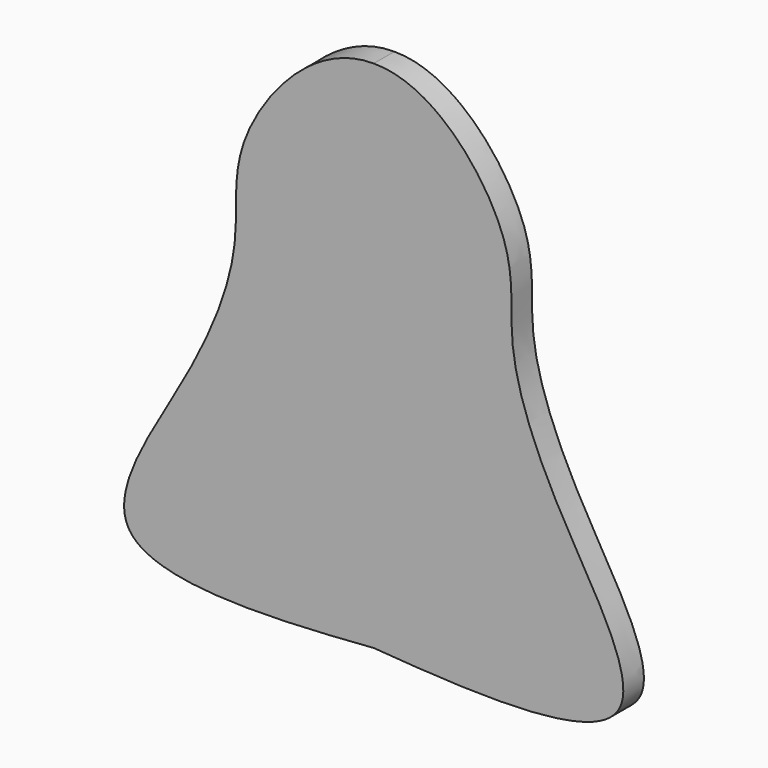
from build123d import *

# Parameters (mm, degrees)
F1_DEPTH = 10


with BuildPart() as f1:
    # F0 (on Front) → F1 (new body)
    with BuildSketch(Plane.XZ):
        with BuildLine():
            add(Edge.make_bspline(
                [(0, 116.6666628956), (23.0533697316, 116.9328106273), (58.1814074045, 74.9288766708), (49.9370613705, 37.4054108077), (69.4353429984, -13.3267263291), (124.0724593758, -91.7372351703), (37.0402980819, -86.1290148152), (0, -83.3333371044)],
                knots=[0, 0, 0, 0, 0.205446768, 0.3589146289, 0.5512254153, 0.7516542364, 1, 1, 1, 1], degree=3))
            add(Edge.make_bspline(
                [(0, 116.6666628956), (-23.0533697316, 116.9328106273), (-58.1814074045, 74.9288766708), (-49.9370613705, 37.4054108077), (-69.4353429984, -13.3267263291), (-124.0724593758, -91.7372351703), (-37.0402980819, -86.1290148152), (0, -83.3333371044)],
                knots=[0, 0, 0, 0, 0.205446768, 0.3589146289, 0.5512254153, 0.7516542364, 1, 1, 1, 1], degree=3))
        make_face()
    extrude(amount=F1_DEPTH)


solid = f1.part
